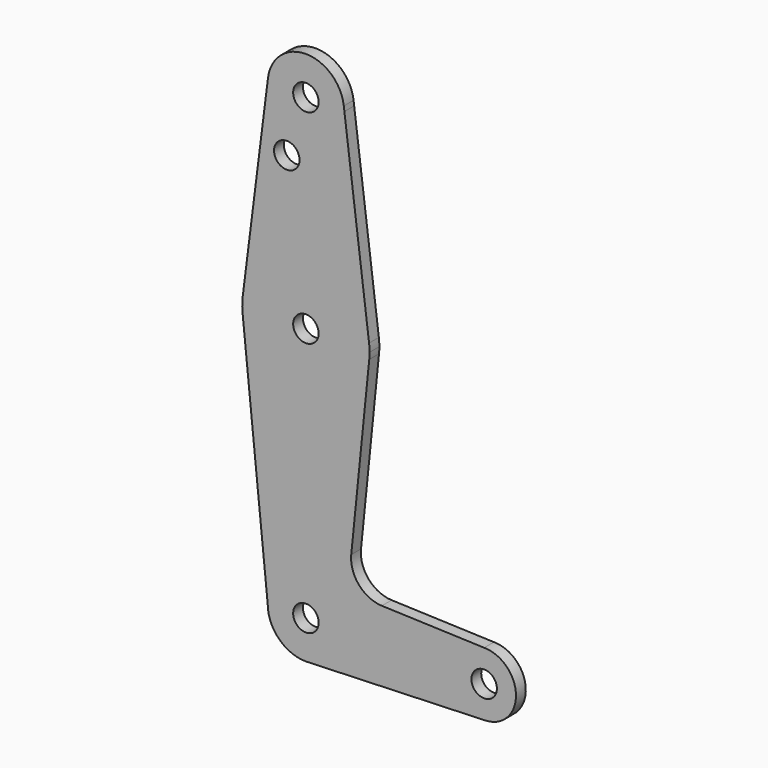
from build123d import *

# Parameters (mm, degrees)
F0_R     = 3.175
F1_DEPTH = 3.048


with BuildPart() as f1:
    # F0 (on Front) → F1 (new body)
    with BuildSketch(Plane.XZ):
        with BuildLine():
            ThreePointArc((0.6773435479, -9.500885786), (6.9705567315, -6.4912990883), (9.525, 0))
            ThreePointArc((9.525, 0), (0, 9.525), (-9.525, 0))
            ThreePointArc((-9.525, 0), (-6.7351920908, -6.7351920908), (0, -9.525))
            Line((0, -9.525), (0.6773435479, -9.500885786))
        make_face()
        Circle(F0_R, mode=Mode.SUBTRACT)
        with BuildLine():
            ThreePointArc((-9.525, 0), (0, 9.525), (9.525, 0))
            Line((9.525, 0), (36.5125, 0))
            ThreePointArc((36.5125, 0), (38.8373399243, 5.6126600757), (44.45, 7.9375))
            Line((44.45, 7.9375), (18.9322510366, 8.8523612883))
            ThreePointArc((18.9322510366, 8.8523612883), (13.2244578226, 11.5730964697), (11.3073615093, 17.5985462477))
            Line((11.3073615093, 17.5985462477), (15.7942028036, 61.9003804205))
            ThreePointArc((15.7942028036, 61.9003804205), (0, 47.625), (-15.7942028036, 61.9003804205))
            Line((-15.7942028036, 61.9003804205), (-9.525, 0))
        make_face()
        with BuildLine():
            Line((36.5125, 0), (9.525, 0))
            ThreePointArc((9.525, 0), (6.9705567315, -6.4912990883), (0.6773435479, -9.500885786))
            Line((0.6773435479, -9.500885786), (44.7324052746, -7.9324746146))
            ThreePointArc((44.7324052746, -7.9324746146), (38.9380895153, -5.7116327839), (36.5125, 0))
        make_face()
        with BuildLine():
            ThreePointArc((44.45, 7.9375), (38.8373399243, 5.6126600757), (36.5125, 0))
            ThreePointArc((36.5125, 0), (38.9380895153, -5.7116327839), (44.7324052746, -7.9324746146))
            ThreePointArc((44.7324052746, -7.9324746146), (50.1616327839, -5.5119104847), (52.3875, 0))
            ThreePointArc((52.3875, 0), (50.0626600757, 5.6126600757), (44.45, 7.9375))
        make_face()
        with BuildLine():
            ThreePointArc((47.625, 0), (44.45, -3.175), (41.275, 0))
            ThreePointArc((41.275, 0), (44.45, 3.175), (47.625, 0))
        make_face(mode=Mode.SUBTRACT)
        with BuildLine():
            ThreePointArc((0, -9.525), (0.3388863295, -9.5189695375), (0.6773435479, -9.500885786))
            Line((0.6773435479, -9.500885786), (0, -9.525))
        make_face()
        with BuildLine():
            ThreePointArc((-15.7504882737, 65.484375), (-15.8738192656, 63.6936154008), (-15.7942028036, 61.9003804205))
            ThreePointArc((-15.7942028036, 61.9003804205), (0, 47.625), (15.7942028036, 61.9003804205))
            ThreePointArc((15.7942028036, 61.9003804205), (15.8547878338, 62.6991705884), (15.875, 63.5))
            ThreePointArc((15.875, 63.5), (15.8438414904, 64.4941387366), (15.7504882737, 65.484375))
            ThreePointArc((15.7504882737, 65.484375), (0, 79.375), (-15.7504882737, 65.484375))
        make_face()
        with Locations((0, 63.5)):
            Circle(F0_R, mode=Mode.SUBTRACT)
        with BuildLine():
            Line((-9.4502929642, 115.490625), (-15.7504882737, 65.484375))
            ThreePointArc((-15.7504882737, 65.484375), (0, 79.375), (15.7504882737, 65.484375))
            Line((15.7504882737, 65.484375), (9.6002976144, 114.3))
            Line((9.6002976144, 114.3), (9.4502929642, 115.490625))
            ThreePointArc((9.4502929642, 115.490625), (9.5063048942, 114.896483242), (9.525, 114.3))
            ThreePointArc((9.525, 114.3), (-0.596483242, 104.7936951058), (-9.4502929642, 115.490625))
        make_face()
        with Locations((-4.7625, 100.0252)):
            Circle(F0_R, mode=Mode.SUBTRACT)
        with BuildLine():
            ThreePointArc((9.4502929642, 115.490625), (0, 123.825), (-9.4502929642, 115.490625))
            ThreePointArc((-9.4502929642, 115.490625), (-0.596483242, 104.7936951058), (9.525, 114.3))
            ThreePointArc((9.525, 114.3), (9.5063048942, 114.896483242), (9.4502929642, 115.490625))
        make_face()
        with Locations((0, 114.3)):
            Circle(F0_R, mode=Mode.SUBTRACT)
    extrude(amount=F1_DEPTH)


solid = f1.part
